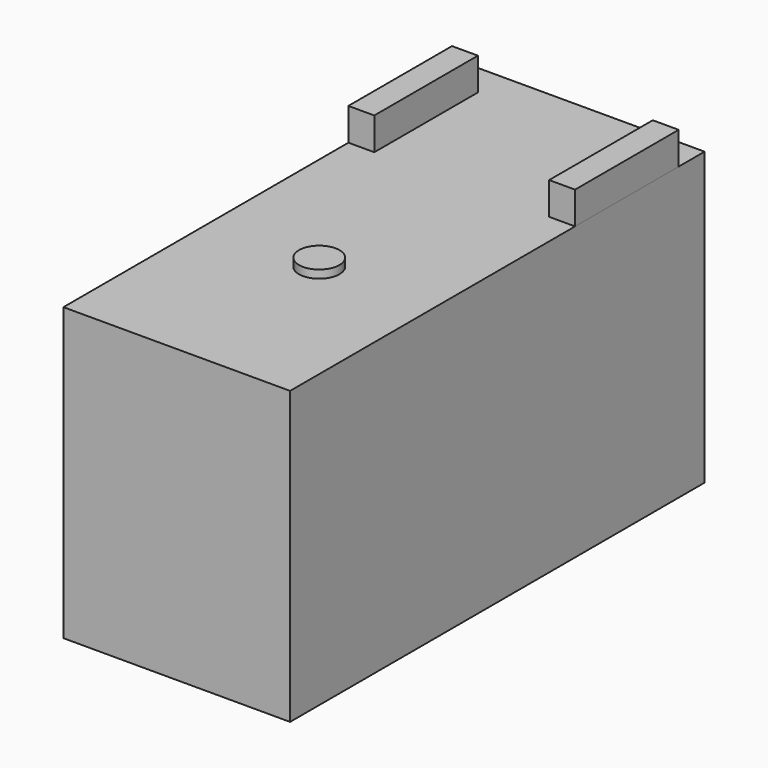
from build123d import *

# Parameters (mm, degrees)
F0_W     = 44.45
F0_H     = 57.15
F1_DEPTH = 101.6
F2_W     = 25.4
F2_H     = 6.35
F3_DEPTH = 44.45
F4_W     = 34.29
F4_H     = 25.4
F5_DEPTH = 6.35
F6_R     = 3.96875
F7_DEPTH = 1.5875
F8_DEPTH = 6.35


with BuildPart() as f1:
    # F0 (on Front) → F1 (new body)
    with BuildSketch(Plane.XZ):
        with Locations((22.225, 28.575)):
            Rectangle(F0_W, F0_H)
    extrude(amount=-F1_DEPTH)

    # F6 (on face) → F7 (join)
    with BuildSketch(Plane.XY.offset(57.15)):
        with Locations((22.225, 34.925)):
            Circle(F6_R)
    extrude(amount=F7_DEPTH)

    # F4 (on face) → F8 (cut)
    with BuildSketch(Plane.XY.offset(63.5)):
        with Locations((22.225, 82.55)):
            Rectangle(F4_W, F4_H)
    extrude(amount=-F8_DEPTH, mode=Mode.SUBTRACT)


with BuildPart() as f3:
    # F2 (on face) → F3 (new body)
    with BuildSketch(Plane(origin=(0, 0, 0), x_dir=(0, -1, 0), z_dir=(-1, 0, 0))):
        with Locations((-82.55, 60.325)):
            Rectangle(F2_W, F2_H)
    extrude(amount=-F3_DEPTH)

    # F4 (on face) → F5 (cut)
    with BuildSketch(Plane.XY.offset(63.5)):
        with Locations((22.225, 82.55)):
            Rectangle(F4_W, F4_H)
    extrude(amount=-F5_DEPTH, mode=Mode.SUBTRACT)


solid = Compound([f1.part, f3.part])
